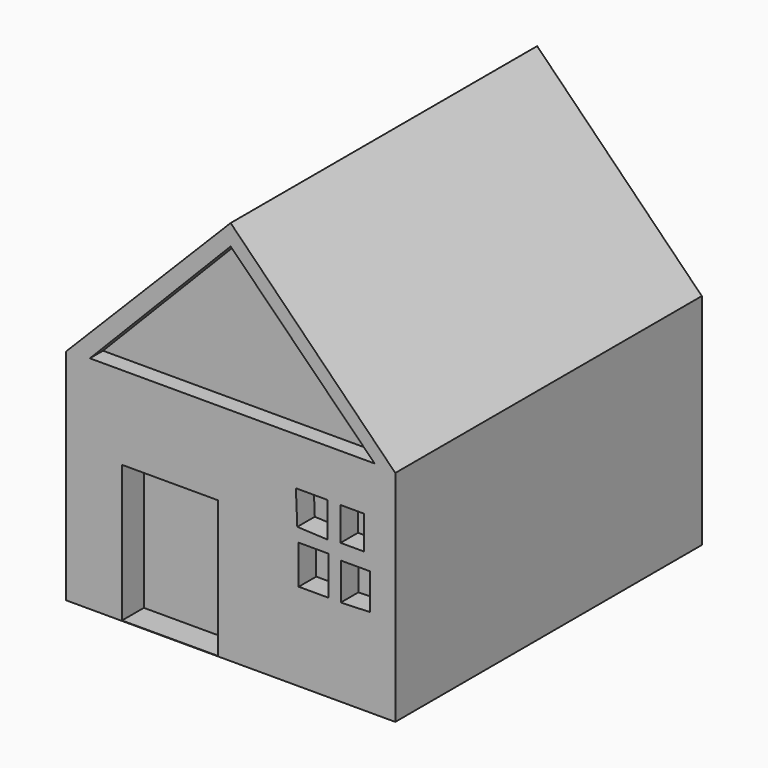
from build123d import *

# Parameters (mm, degrees)
PAD_DEPTH       = 70
POCKET_DEPTH    = 3
SKETCH002_W     = 17.516219
SKETCH002_H     = 25.036772
POCKET001_DEPTH = 5
POCKET002_DEPTH = 4
SKETCH004_W     = 4.283857
SKETCH004_H     = 6.092597
POCKET003_DEPTH = 4
SKETCH005_W     = 5.455842
SKETCH005_H     = 7.092594
POCKET004_DEPTH = 4
POCKET005_DEPTH = 4


with BuildPart() as part:
    # Sketch → Pad (new body)
    with BuildSketch(Plane.XZ):
        Polygon((-30.042765, 9.957636), (30.084745, 9.957636), (30.084745, 49.997265), (0, 80.418144), (-30.042765, 50.004828), align=None)
    extrude(amount=PAD_DEPTH)

    # Sketch001 (on Face7 of Pad) → Pocket (cut)
    with BuildSketch(Plane.XZ.offset(70)):
        Polygon((-25.712206, 50.291458), (0, 76.657417), (26.325865, 50.291458), align=None)
    extrude(amount=-POCKET_DEPTH, mode=Mode.SUBTRACT)

    # Sketch002 (on Face5 of Pocket) → Pocket001 (cut)
    with BuildSketch(Plane.XZ.offset(70)):
        with Locations((-11.08819, 22.555024)):
            Rectangle(SKETCH002_W, SKETCH002_H)
    extrude(amount=-POCKET001_DEPTH, mode=Mode.SUBTRACT)

    # Sketch003 (on Face5 of Pocket001) → Pocket002 (cut)
    with BuildSketch(Plane.XZ.offset(70)):
        Polygon((12.177204, 35.510704), (11.921955, 41.636688), (17.665068, 41.636688), (17.665068, 35.255455), align=None)
    extrude(amount=-POCKET002_DEPTH, mode=Mode.SUBTRACT)

    # Sketch004 (on Face5 of Pocket002) → Pocket003 (cut)
    with BuildSketch(Plane.XZ.offset(70)):
        with Locations((22.218716, 38.549026)):
            Rectangle(SKETCH004_W, SKETCH004_H)
    extrude(amount=-POCKET003_DEPTH, mode=Mode.SUBTRACT)

    # Sketch005 (on Face5 of Pocket003) → Pocket004 (cut)
    with BuildSketch(Plane.XZ.offset(70)):
        with Locations((15.162952, 29.507296)):
            Rectangle(SKETCH005_W, SKETCH005_H)
    extrude(amount=-POCKET004_DEPTH, mode=Mode.SUBTRACT)

    # Sketch006 (on Face5 of Pocket004) → Pocket005 (cut)
    with BuildSketch(Plane.XZ.offset(70)):
        Polygon((20.12318, 32.68227), (20.12318, 25.923292), (25.454206, 26.113686), (25.454206, 32.68227), align=None)
    extrude(amount=-POCKET005_DEPTH, mode=Mode.SUBTRACT)


solid = part.part
